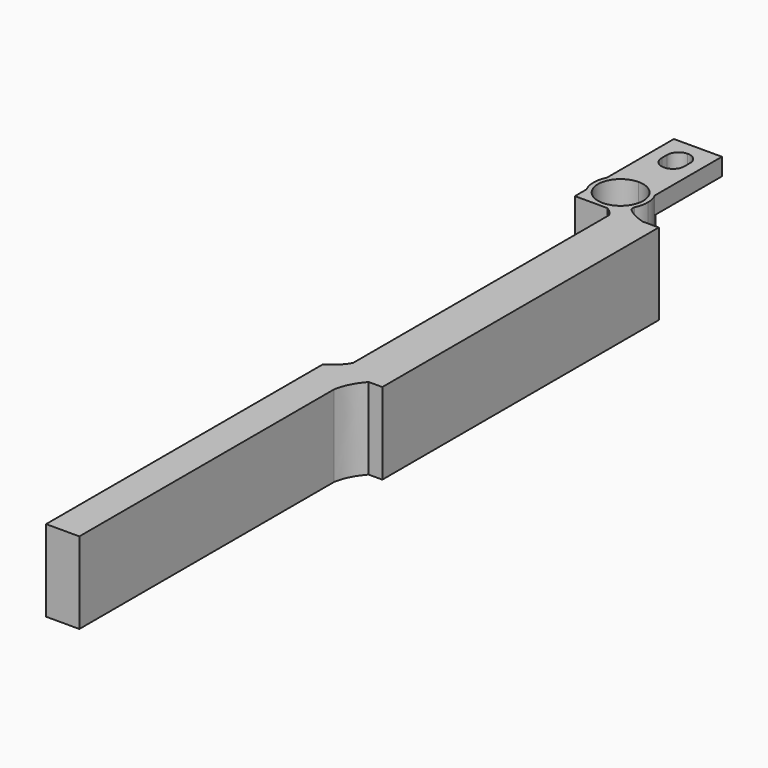
from build123d import *

# Parameters (mm, degrees)
F1_DEPTH = 5.9
F2_DEPTH = 11.8
F3_DEPTH = 2.5


with BuildPart() as f1:
    # F0 (on Top) → F1 (new body)
    with BuildSketch(Plane.XY):
        with BuildLine():
            Line((3.475, 0.65), (3.475, 0))
            ThreePointArc((3.475, 0), (4.7730375063, 0.2208504846), (5.925, 0.8585484677))
            ThreePointArc((5.925, 0.8585484677), (6.5018486959, 1.426237912), (6.95, 2.1001712409))
            Line((6.95, 2.1001712409), (6.95, 5.7498287591))
            ThreePointArc((6.95, 5.7498287591), (5.5051689733, 7.2841723593), (3.475, 7.85))
            Line((3.475, 7.85), (3.475, 7.2))
            ThreePointArc((3.475, 7.2), (5.7907747084, 6.2407747084), (6.75, 3.925))
            ThreePointArc((6.75, 3.925), (5.7907747084, 1.6092252916), (3.475, 0.65))
        make_face()
        with BuildLine():
            Line((0, 5.7498287591), (0, 2.1001712409))
            ThreePointArc((0, 2.1001712409), (0.4481513041, 1.426237912), (1.025, 0.8585484677))
            ThreePointArc((1.025, 0.8585484677), (2.1769624937, 0.2208504846), (3.475, 0))
            Line((3.475, 0), (3.475, 0.65))
            ThreePointArc((3.475, 0.65), (0.2, 3.925), (3.475, 7.2))
            Line((3.475, 7.2), (3.475, 7.85))
            ThreePointArc((3.475, 7.85), (1.4448310267, 7.2841723593), (0, 5.7498287591))
        make_face()
        with BuildLine():
            Line((0, 2.1001712409), (0, 0))
            Line((0, 0), (1.025, 0))
            Line((1.025, 0), (1.025, 0.8585484677))
            ThreePointArc((1.025, 0.8585484677), (0.4481513041, 1.426237912), (0, 2.1001712409))
        make_face()
        with BuildLine():
            Line((1.025, 0.8585484677), (1.025, 0))
            Line((1.025, 0), (3.475, 0))
            ThreePointArc((3.475, 0), (2.1769624937, 0.2208504846), (1.025, 0.8585484677))
        make_face()
        with BuildLine():
            ThreePointArc((0, 5.7498287591), (-0.45, 3.925), (0, 2.1001712409))
            Line((0, 2.1001712409), (0, 5.7498287591))
        make_face()
        with BuildLine():
            Line((6.95, 5.7498287591), (6.95, 2.1001712409))
            ThreePointArc((6.95, 2.1001712409), (7.2858398025, 2.9852526935), (7.4, 3.925))
            ThreePointArc((7.4, 3.925), (7.2858398025, 4.8647473065), (6.95, 5.7498287591))
        make_face()
        with BuildLine():
            ThreePointArc((6.95, 2.1001712409), (6.5018486959, 1.426237912), (5.925, 0.8585484677))
            Line((5.925, 0.8585484677), (5.925, 0))
            Line((5.925, 0), (6.95, 0))
            Line((6.95, 0), (6.95, 1.44))
            Line((6.95, 1.44), (6.95, 1.5))
            Line((6.95, 1.5), (6.95, 2.1001712409))
        make_face()
        with BuildLine():
            ThreePointArc((5.925, 0.8585484677), (4.7730375063, 0.2208504846), (3.475, 0))
            Line((3.475, 0), (4.7, 0))
            Line((4.7, 0), (5.925, 0))
            Line((5.925, 0), (5.925, 0.8585484677))
        make_face()
        with BuildLine():
            Line((5.925, 0), (4.7, 0))
            add(Edge.make_bspline(
                [(4.7, 0), (5.2537494339, -0.3164176305), (5.6369397789, -0.7196032093), (5.925, -1.225)],
                knots=[0, 0, 0, 0, 1.7324116139, 1.7324116139, 1.7324116139, 1.7324116139], degree=3))
            Line((5.925, -1.225), (5.925, -0.079424061))
            Line((5.925, -0.079424061), (5.925, 0))
        make_face()
        with BuildLine():
            Line((6.95, 1.44), (6.95, 0))
            Line((6.95, 0), (9.8284865708, -0.079424061))
            add(Edge.make_bspline(
                [(6.95, 1.5), (7.7566024847, 0.7003984647), (8.7155010551, 0.2800084476), (9.8284865708, -0.079424061)],
                knots=[0, 0, 0, 0, 3.2833314336, 3.2833314336, 3.2833314336, 3.2833314336], degree=3))
            Line((6.95, 1.5), (6.95, 1.44))
        make_face()
    extrude(amount=-F1_DEPTH)

    # F0 (on Top) → F2 (join)
    with BuildSketch(Plane.XY):
        Polygon((8.29, -50.0240602729), (5.925, -50), (5.925, -52.0125), (5.925, -100), (8.29, -100), (8.29, -53.904), align=None)
        with BuildLine():
            add(Edge.make_bspline(
                [(5.925, -47.55), (5.2342489362, -48.7282052636), (4.4546769932, -49.3181198835), (3.475, -50)],
                knots=[0, 0, 0, 0, 3.4648232278, 3.4648232278, 3.4648232278, 3.4648232278], degree=3))
            Line((3.475, -50), (5.925, -50))
            Line((5.925, -50), (5.925, -47.55))
        make_face()
        Polygon((5.925, -50), (3.475, -50), (3.475, -100), (5.925, -100), (5.925, -52.0125), align=None)
        with BuildLine():
            Line((9.8284865708, -50.079424061), (9.8284865708, -50.0397120305))
            Line((9.8284865708, -50.0397120305), (8.29, -50.0240602729))
            Line((8.29, -50.0240602729), (8.29, -53.904))
            add(Edge.make_bspline(
                [(8.29, -53.904), (8.5714472143, -52.4050904341), (9.1968655396, -51.250747129), (10.207343012, -50.079424061)],
                knots=[0, 0, 0, 0, 4.2808358806, 4.2808358806, 4.2808358806, 4.2808358806], degree=3))
            Line((10.207343012, -50.079424061), (9.8284865708, -50.079424061))
        make_face()
        Polygon((9.8284865708, -25), (5.925, -25), (5.925, -26.9515), (5.925, -28.903), (5.925, -47.55), (5.925, -50), (8.29, -50), (9.8284865708, -50.0313035152), align=None)
        Polygon((12.1934865708, -0.079424061), (9.8284865708, -0.079424061), (9.8284865708, -25), (9.8284865708, -50.0313035152), (10.2417432854, -50.0397120305), (12.1934865708, -50.079424061), align=None)
        with BuildLine():
            Line((10.2417432854, -50.0397120305), (9.8284865708, -50.0313035152))
            Line((9.8284865708, -50.0313035152), (9.8284865708, -50.0397120305))
            Line((9.8284865708, -50.0397120305), (9.8284865708, -50.079424061))
            Line((9.8284865708, -50.079424061), (10.207343012, -50.079424061))
            add(Edge.make_bspline(
                [(10.207343012, -50.079424061), (10.2187605889, -50.0661890592), (10.230227327, -50.0529518896), (10.2417432854, -50.0397120305)],
                knots=[4.2808358806, 4.2808358806, 4.2808358806, 4.2808358806, 4.3292058583, 4.3292058583, 4.3292058583, 4.3292058583], degree=3))
        make_face()
        with BuildLine():
            Line((10.207343012, -50.079424061), (12.1934865708, -50.079424061))
            Line((12.1934865708, -50.079424061), (10.2417432854, -50.0397120305))
            add(Edge.make_bspline(
                [(10.207343012, -50.079424061), (10.2187605889, -50.0661890592), (10.230227327, -50.0529518896), (10.2417432854, -50.0397120305)],
                knots=[4.2808358806, 4.2808358806, 4.2808358806, 4.2808358806, 4.3292058583, 4.3292058583, 4.3292058583, 4.3292058583], degree=3))
        make_face()
        Polygon((9.8284865708, -50.0397120305), (9.8284865708, -50.0313035152), (8.29, -50), (8.29, -50.0240602729), align=None)
        Polygon((8.29, -50.0240602729), (8.29, -50), (5.925, -50), align=None)
        Polygon((6.95, 0), (5.925, 0), (5.925, -0.079424061), (5.925, -1.225), (5.925, -21.3844068348), (5.925, -22.55), (5.925, -22.9875), (5.925, -25), (9.8284865708, -25), (9.8284865708, -0.079424061), align=None)
    extrude(amount=-F2_DEPTH)

    # F0 (on Top) → F3 (join)
    with BuildSketch(Plane.XY):
        with BuildLine():
            Line((0, 7.85), (0, 5.7498287591))
            ThreePointArc((0, 5.7498287591), (1.4448310267, 7.2841723593), (3.475, 7.85))
            ThreePointArc((3.475, 7.85), (5.5051689733, 7.2841723593), (6.95, 5.7498287591))
            Line((6.95, 5.7498287591), (6.95, 17.9))
            Line((6.95, 17.9), (3.475, 17.9))
            Line((3.475, 17.9), (0, 17.9))
            Line((0, 17.9), (0, 7.85))
        make_face()
        with BuildLine():
            ThreePointArc((1.8276640256, 14.3833613398), (2.3042302705, 15.55900427), (3.475, 16.0474200003))
            ThreePointArc((3.475, 16.0474200003), (4.5253988967, 15.6691157612), (5.0933824344, 14.7079463483))
            Line((5.0933824344, 14.7079463483), (5.1024433757, 14.1442252627))
            Line((5.1024433757, 14.1442252627), (5.113982201, 13.4263440945))
            ThreePointArc((5.113982201, 13.4263440945), (5.1141409801, 13.4131724726), (5.1141939076, 13.4))
            ThreePointArc((5.1141939076, 13.4), (4.6340851277, 12.2409148723), (3.475, 11.7608060924))
            ThreePointArc((3.475, 11.7608060924), (2.2942628451, 12.2629791393), (1.8369719791, 13.4618131819))
            Line((1.8369719791, 13.4618131819), (1.8276640256, 14.3833613398))
        make_face(mode=Mode.SUBTRACT)
    extrude(amount=-F3_DEPTH)


solid = f1.part
